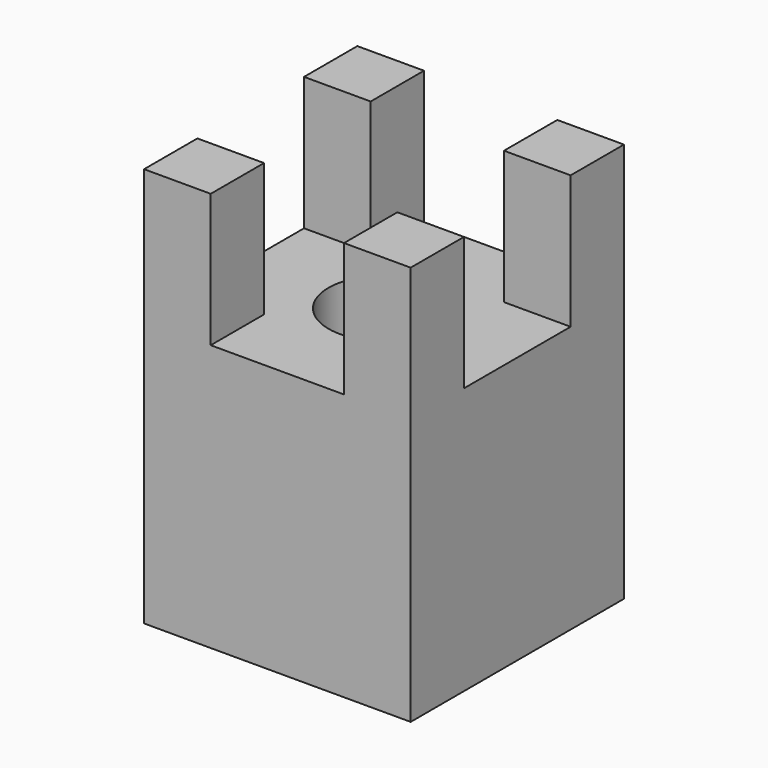
from build123d import *

# Parameters (mm, degrees)
F0_W     = 60
F0_H     = 60
F1_DEPTH = 60
F2_W     = 15
F2_H     = 15
F3_DEPTH = 30
F4_R     = 12.5
F5_DEPTH = 60


with BuildPart() as f1:
    # F0 (on Top) → F1 (new body)
    with BuildSketch(Plane.XY):
        Rectangle(F0_W, F0_H)
    extrude(amount=F1_DEPTH)

    # F2 (on face) → F3 (join)
    with BuildSketch(Plane.XY.offset(60)):
        with Locations((-22.5, -22.5)):
            Rectangle(F2_W, F2_H)
        with Locations((-22.5, 22.5)):
            Rectangle(F2_W, F2_H)
        with Locations((22.5, 22.5)):
            Rectangle(F2_W, F2_H)
        with Locations((22.5, -22.5)):
            Rectangle(F2_W, F2_H)
    extrude(amount=F3_DEPTH)

    # F4 (on face) → F5 (cut)
    with BuildSketch(Plane.XY.offset(60)):
        Circle(F4_R)
    extrude(amount=-F5_DEPTH, mode=Mode.SUBTRACT)


solid = f1.part
